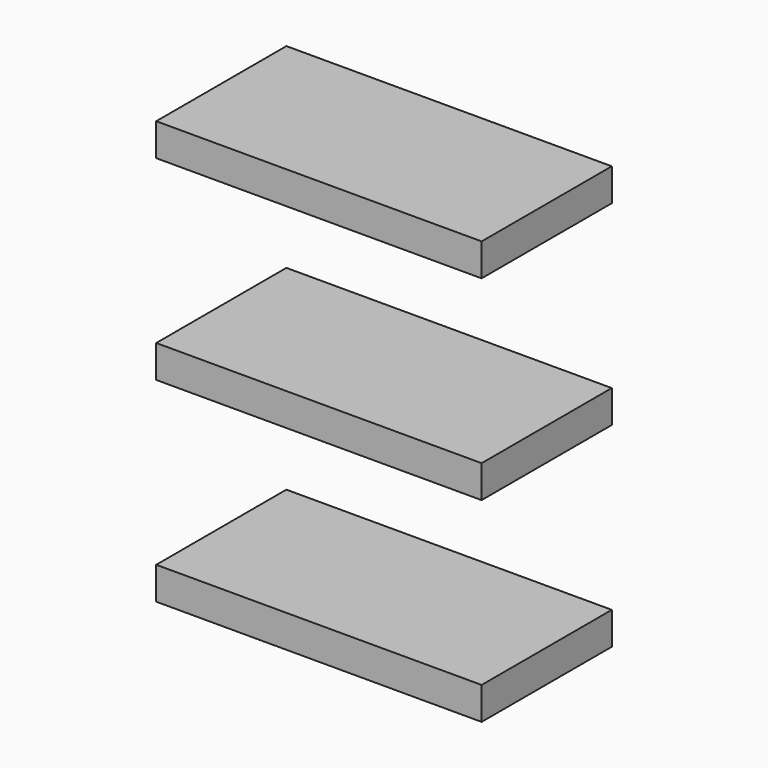
from build123d import *

# Parameters (mm, degrees)
F1_DEPTH = 25
F2_DEPTH = 25
F3_DEPTH = 25


with BuildPart() as f1:
    # F0 (on Front) → F1 (new body)
    with BuildSketch(Plane.XZ):
        Polygon((0, -27.5), (0, -32.5), (50, -32.5), (50, -27.5), (5, -27.5), align=None)
    extrude(amount=F1_DEPTH)


with BuildPart() as f2:
    # F0 (on Front) → F2 (new body, through all)
    with BuildSketch(Plane.XZ):
        Polygon((0, 2.5), (0, -2.5), (5, -2.5), (50, -2.5), (50, 2.5), (5, 2.5), align=None)
    extrude(amount=F2_DEPTH)


with BuildPart() as f3:
    # F0 (on Front) → F3 (new body, through all)
    with BuildSketch(Plane.XZ):
        Polygon((0, 32.5), (0, 27.5), (5, 27.5), (50, 27.5), (50, 32.5), align=None)
    extrude(amount=F3_DEPTH)


solid = Compound([f1.part, f2.part, f3.part])
